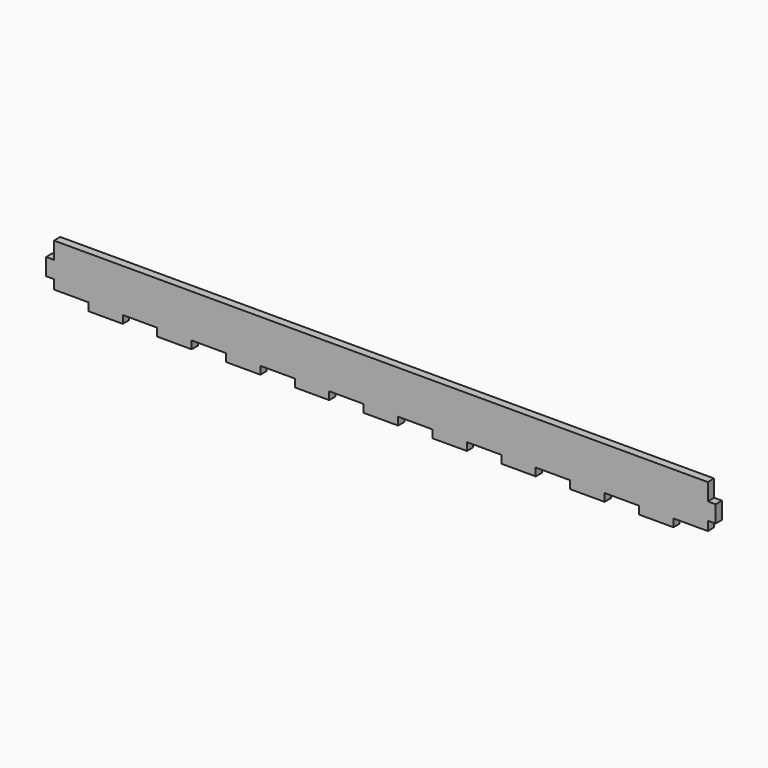
from build123d import *

# Parameters (mm, degrees)
BOX002_W         = 6
BOX002_H         = 10
BOX002_DEPTH     = 13
ARRAY003_X_COUNT = 2
ARRAY003_X_PITCH = 506
ARRAY003_Z_COUNT = 2
ARRAY003_Z_PITCH = 26
BOX001_W         = 26.3157894737
BOX001_H         = 10
BOX001_DEPTH     = 6
ARRAY001_X_COUNT = 10
ARRAY001_X_PITCH = 52.6315789474
BOX_W            = 512
BOX_H            = 6
BOX_DEPTH        = 39


with BuildPart() as vertical_array:
    # Box002 → Box002 (new body)
    with BuildSketch(Plane.XY):
        with Locations((3, 5)):
            Rectangle(BOX002_W, BOX002_H)
    extrude(amount=BOX002_DEPTH)

    # Array003 X: Vertical_Array ×2


with BuildPart() as vertical_array_1:
    add(vertical_array.part)
    with Locations(*[(i * ARRAY003_X_PITCH, 0, 0) for i in range(1, ARRAY003_X_COUNT)]):
        add(vertical_array.part)

    # Array003 Z: Vertical_Array ×2


with BuildPart() as vertical_array_2:
    add(vertical_array_1.part)
    with Locations(*[(0, 0, i * ARRAY003_Z_PITCH) for i in range(1, ARRAY003_Z_COUNT)]):
        add(vertical_array_1.part)


with BuildPart() as horizontal_array:
    # Box001 → Box001 (new body)
    with BuildSketch(Plane.XY):
        with Locations((13.1578947368, 5)):
            Rectangle(BOX001_W, BOX001_H)
    extrude(amount=BOX001_DEPTH)

    # Array001 X: Horizontal_Array ×10


with BuildPart() as horizontal_array_1:
    add(horizontal_array.part)
    with Locations(*[(i * ARRAY001_X_PITCH, 0, 0) for i in range(1, ARRAY001_X_COUNT)]):
        add(horizontal_array.part)


with BuildPart() as horizontal_array_2:
    # Array001 placement: moved
    add(horizontal_array_1.part.moved(Location((6, 0, 0))))


with BuildPart() as cut001:
    # Box → Box (new body)
    with BuildSketch(Plane.XY):
        with Locations((256, 3)):
            Rectangle(BOX_W, BOX_H)
    extrude(amount=BOX_DEPTH)

    # Cut: cut Horizontal_Array
    add(horizontal_array_2.part, mode=Mode.SUBTRACT)

    # Cut001: cut Vertical_Array
    add(vertical_array_2.part, mode=Mode.SUBTRACT)


solid = cut001.part
